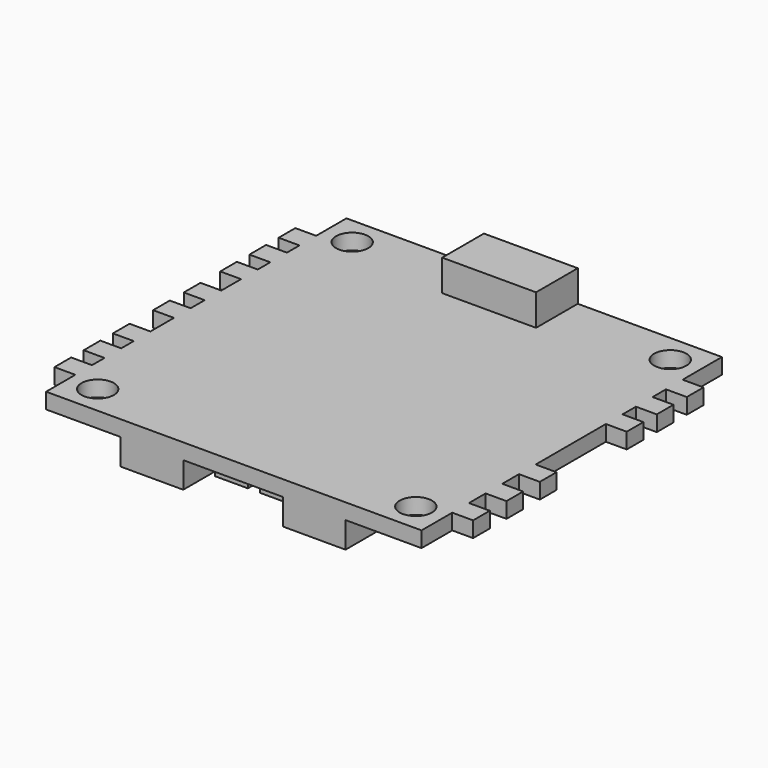
from build123d import *

# Parameters (mm, degrees)
F2_R     = 1.55
F2_W     = 2
F2_H     = 2
F3_DEPTH = 1.5
F4_W     = 9
F4_H     = 5
F5_DEPTH = 3
F6_W     = 6
F6_H     = 6.7
F7_DEPTH = 2.5
F6_W_2   = 3.4
F6_H_2   = 3.4
F6_W_3   = 4.4
F6_H_3   = 4.4
F8_DEPTH = 1.5
F6_W_4   = 1.536496
F6_H_4   = 2.176703
F6_H_5   = 2.176704
F6_W_5   = 2.874283
F6_H_6   = 1.806834
F6_W_6   = 2.176703
F6_H_7   = 1.536496
F6_W_7   = 3.137013
F6_H_8   = 2.112682
F9_DEPTH = 2


with BuildPart() as f3:
    # F2 (on Top) → F3 (new body)
    with BuildSketch(Plane.XY):
        Polygon((18, 18), (-18, 18), (-18, 14.369573), (-18, 12.369573), (-18, 10.869573), (-18, 8.869573), (-18, 7.369573), (-18, 5.369573), (-18, 3.005002), (-18, 1.005002), (-18, -0.673528), (-18, -2.673528), (-18, -5.493983), (-18, -7.493983), (-18, -8.993983), (-18, -10.993983), (-18, -12.493983), (-18, -14.493983), (-18, -18), (18, -18), (18, -14.322089), (18, -12.322089), (18, -10.322089), (18, -8.322089), (18, -6.322089), (18, -4.322089), (18, 4.09024), (18, 6.09024), (18, 7.69024), (18, 9.69024), (18, 11.29024), (18, 13.29024), align=None)
        with Locations((-15.25, -15.25)):
            Circle(F2_R, mode=Mode.SUBTRACT)
        with Locations((15.25, -15.25)):
            Circle(F2_R, mode=Mode.SUBTRACT)
        with Locations((-15.25, 15.25)):
            Circle(F2_R, mode=Mode.SUBTRACT)
        with Locations((15.25, 15.25)):
            Circle(F2_R, mode=Mode.SUBTRACT)
        with Locations((-19, 13.369573)):
            Rectangle(F2_W, F2_H)
        with Locations((19, 12.29024)):
            Rectangle(F2_W, F2_H)
        with Locations((-19, 9.869573)):
            Rectangle(F2_W, F2_H)
        with Locations((19, 8.69024)):
            Rectangle(F2_W, F2_H)
        with Locations((-19, 6.369573)):
            Rectangle(F2_W, F2_H)
        with Locations((19, 5.09024)):
            Rectangle(F2_W, F2_H)
        with Locations((-19, 2.005002)):
            Rectangle(F2_W, F2_H)
        with Locations((19, -5.322089)):
            Rectangle(F2_W, F2_H)
        with Locations((-19, -1.673528)):
            Rectangle(F2_W, F2_H)
        with Locations((19, -9.322089)):
            Rectangle(F2_W, F2_H)
        with Locations((-19, -6.493983)):
            Rectangle(F2_W, F2_H)
        with Locations((19, -13.322089)):
            Rectangle(F2_W, F2_H)
        with Locations((-19, -9.993983)):
            Rectangle(F2_W, F2_H)
        with Locations((-19, -13.493983)):
            Rectangle(F2_W, F2_H)
    extrude(amount=F3_DEPTH)

    # F4 (on face) → F5 (join)
    with BuildSketch(Plane.XY.offset(1.5)):
        with Locations((-0.321198, 15.5)):
            Rectangle(F4_W, F4_H)
    extrude(amount=F5_DEPTH)

    # F6 (on face) → F7 (join)
    with BuildSketch(Plane(origin=(0, 0, 0), x_dir=(1, 0, 0), z_dir=(0, 0, -1))):
        with Locations((2.004663, -14.65)):
            Rectangle(F6_W, F6_H)
        with Locations((-7.845552, 14.65)):
            Rectangle(F6_W, F6_H)
        with Locations((7.711476, 14.65)):
            Rectangle(F6_W, F6_H)
    extrude(amount=F7_DEPTH)

    # F6 (on face) → F8 (join)
    with BuildSketch(Plane(origin=(0, 0, 0), x_dir=(1, 0, 0), z_dir=(0, 0, -1))):
        with Locations((-12.063461, -10.042248)):
            Rectangle(F6_W_2, F6_H_2)
        with Locations((-5.725725, -5.885644)):
            Rectangle(F6_W_3, F6_H_3)
        with Locations((6.013899, -6.527154)):
            Rectangle(F6_W_3, F6_H_3)
        with Locations((11.864845, -3.498852)):
            Rectangle(F6_W_2, F6_H_2)
        with Locations((12.121448, 7.278509)):
            Rectangle(F6_W_2, F6_H_2)
        with Locations((6.078051, 4.699263)):
            Rectangle(F6_W_3, F6_H_3)
        with Locations((-5.725725, 5.687943)):
            Rectangle(F6_W_3, F6_H_3)
        with Locations((-11.871008, 4.389598)):
            Rectangle(F6_W_2, F6_H_2)
    extrude(amount=F8_DEPTH)

    # F6 (on face) → F9 (join)
    with BuildSketch(Plane(origin=(0, 0, 0), x_dir=(1, 0, 0), z_dir=(0, 0, -1))):
        with Locations((-9.702151, -4.16677)):
            Rectangle(F6_W_4, F6_H_4)
        with Locations((-9.254006, 7.17795)):
            Rectangle(F6_W_4, F6_H_4)
        with Locations((9.9522, -8.328114)):
            Rectangle(F6_W_4, F6_H_5)
        with Locations((-3.516199, -14.194596)):
            Rectangle(F6_W_5, F6_H_6)
        with Locations((9.888179, 2.235299)):
            Rectangle(F6_W_6, F6_H_7)
        with Locations((-2.17972, 14.495261)):
            Rectangle(F6_W_7, F6_H_8)
        with Locations((2.109666, 14.495261)):
            Rectangle(F6_W_7, F6_H_8)
    extrude(amount=F9_DEPTH)


solid = f3.part
